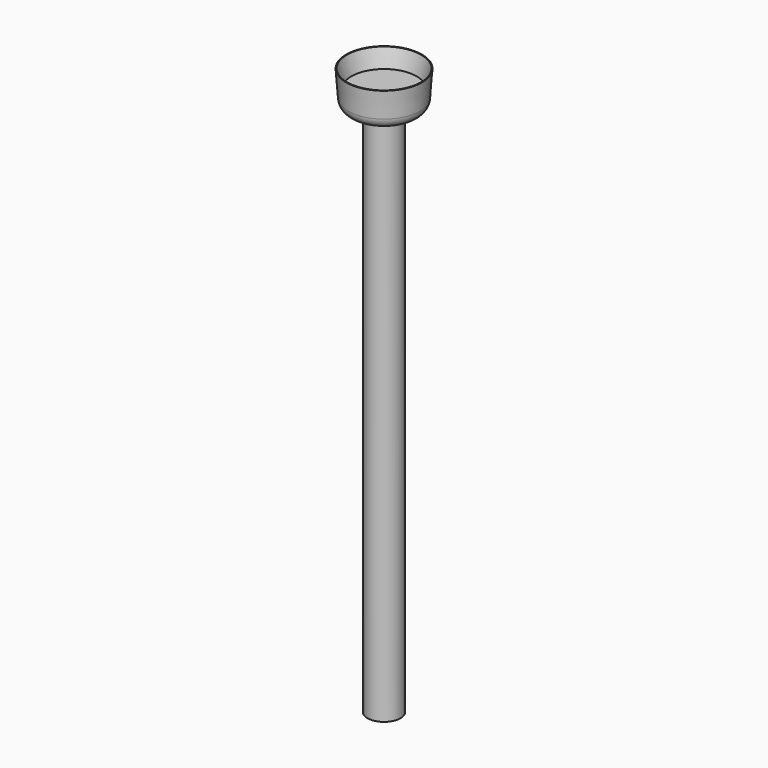
from build123d import *

# Parameters (mm, degrees)
F2_R     = 3.81
F3_R     = 5.5372
F4_DEPTH = 177.8


with BuildPart() as f1:
    # F0 (on Front) → F1 (revolve)
    with BuildSketch(Plane.XZ):
        Polygon((0, 6.35), (0, 0), (11.811, 0), (12.7, 12.192), (12.446, 12.192), (10.922, 6.35), align=None)
    revolve(axis=Axis((0, 0, 3.175), (0, 0, -1)))

    # F2
    f2_edges = [f1.edges().sort_by_distance(p)[0] for p in [
        (-11.811, 0, 0),
    ]]
    fillet(f2_edges, radius=F2_R)

    # F3 (on face) → F4 (join)
    with BuildSketch(Plane(origin=(0, 0, 0), x_dir=(1, 0, 0), z_dir=(0, 0, -1))):
        Circle(F3_R)
    extrude(amount=F4_DEPTH)


solid = f1.part
